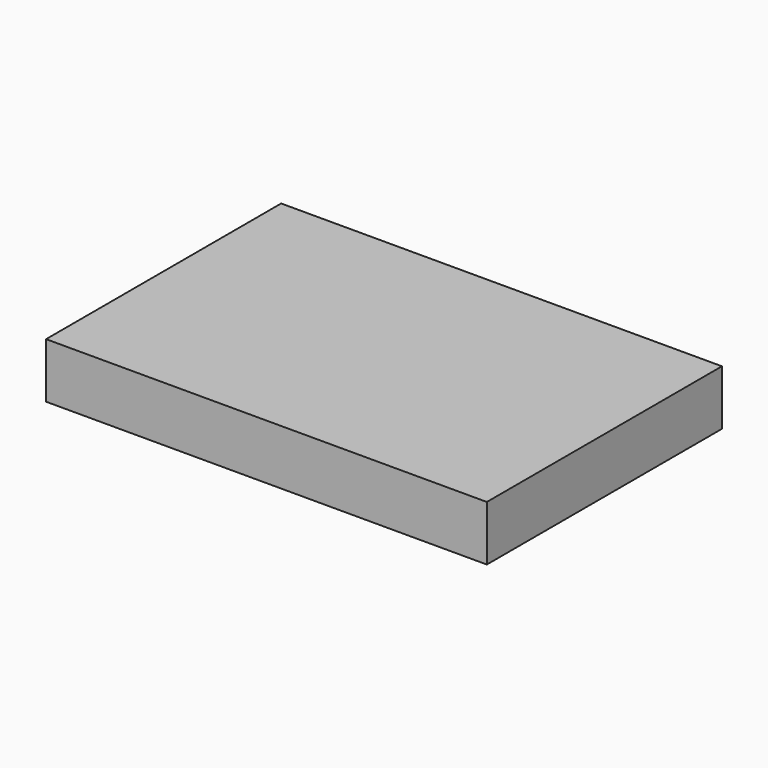
from build123d import *

# Parameters (mm, degrees)
SKETCH_W  = 0.24
SKETCH_H  = 0.16
PAD_DEPTH = 0.015


with BuildPart() as part:
    # Sketch → Pad (new body, symmetric)
    with BuildSketch(Plane.XY):
        Rectangle(SKETCH_W, SKETCH_H)
    extrude(amount=PAD_DEPTH, both=True)


solid = part.part
